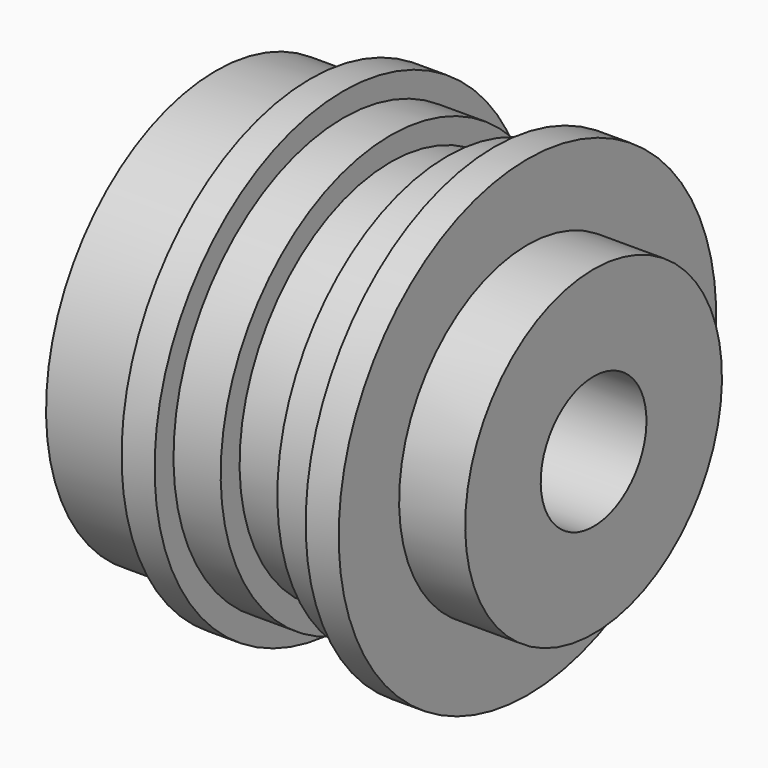
from build123d import *


with BuildPart() as f3:
    # F2 (on Front) → F3 (revolve)
    with BuildSketch(Plane.XZ):
        Polygon((215, 22.5), (205, 22.5), (205, 8.5), (225, 8.5), (225, 7), (245, 7), (245, 17), (238, 17), (238, 25), (234.5, 25), (234.5, 22.5), (229.5, 22.5), (229.5, 20), (223.5, 20), (223.5, 22.5), (218.5, 22.5), (218.5, 25), (215, 25), align=None)
    revolve(axis=Axis((228.922643, 0, 0), (1, 0, 0)))


solid = f3.part
